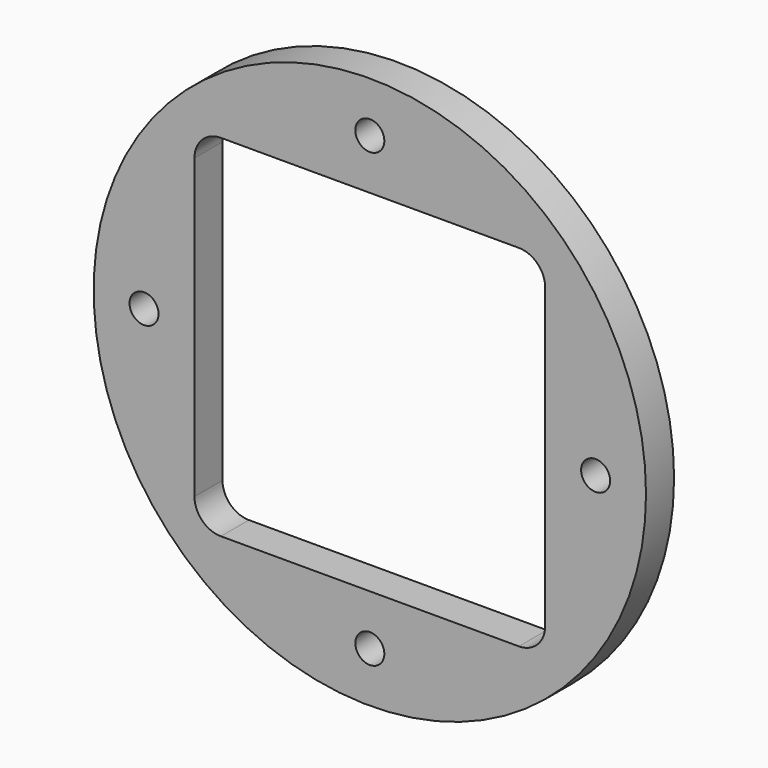
from build123d import *

# Parameters (mm, degrees)
F0_R     = 100
F1_DEPTH = 12.7
F2_D     = 10.5


with BuildPart() as f1:
    # F0 (on Front) → F1 (new body)
    with BuildSketch(Plane.XZ):
        Circle(F0_R)
        with BuildLine():
            ThreePointArc((63.5, -53.95), (60.7028697603, -60.7028697603), (53.95, -63.5))
            Line((53.95, -63.5), (-53.95, -63.5))
            ThreePointArc((-53.95, -63.5), (-60.7028697603, -60.7028697603), (-63.5, -53.95))
            Line((-63.5, -53.95), (-63.5, 53.95))
            ThreePointArc((-63.5, 53.95), (-60.7028697603, 60.7028697603), (-53.95, 63.5))
            Line((-53.95, 63.5), (53.95, 63.5))
            ThreePointArc((53.95, 63.5), (60.7028697603, 60.7028697603), (63.5, 53.95))
            Line((63.5, 53.95), (63.5, -53.95))
        make_face(mode=Mode.SUBTRACT)
    extrude(amount=F1_DEPTH)

    # F2 (through all)
    with Locations(Plane(origin=(0, 0, 0), x_dir=(1, 0, 0), z_dir=(0, 1, 0))):
        with Locations((0, -81.754), (81.754, 0), (0, 81.754), (-81.754, 0)):
            Hole(F2_D / 2)


solid = f1.part
